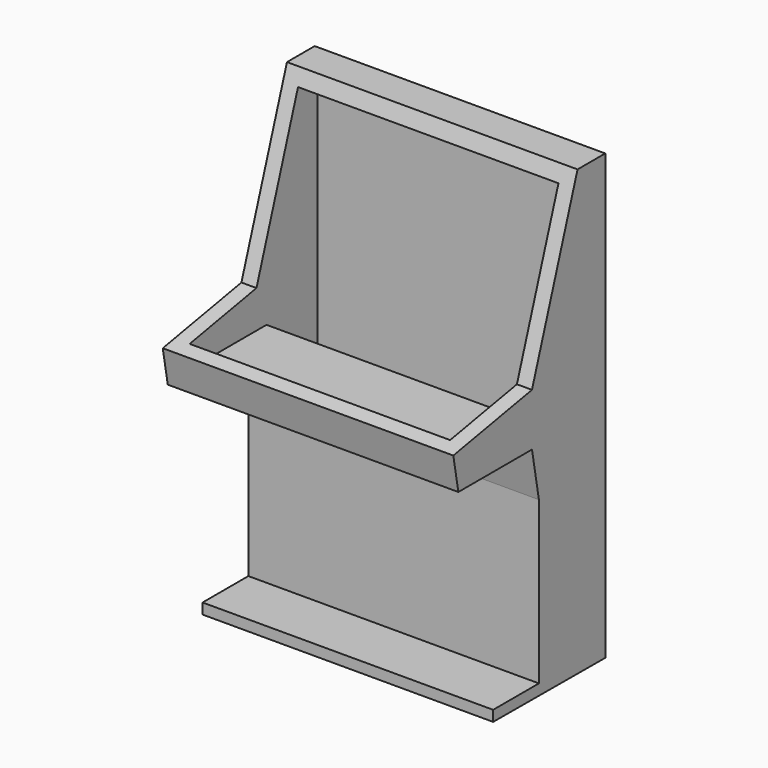
from build123d import *

# Parameters (mm, degrees)
F1_DEPTH = 49.022
F2_T     = -2.54
F4_W     = 49.022
F4_H     = 1.7985738814
F5_DEPTH = 9.652


with BuildPart() as f1:
    # F0 (on Right) → F1 (new body)
    with BuildSketch(Plane.YZ):
        Polygon((1.5098481488, -2.5384752646), (-15.0794390421, -5.5547094899), (-14.0161000537, -11.4030735567), (1.5098481488, -11.4030735567), (2.9737947043, -19.4547791034), (2.9737947043, -46.7351712286), (-5.6977379136, -46.7351712286), (-5.6886866642, -48.53374511), (16.9632527977, -48.6290739331), (16.9632527977, 26.2930374593), (11.1203547567, 26.2930374593), align=None)
    extrude(amount=-F1_DEPTH)

    # F2
    f2_openings = [f1.faces().sort_by_distance(p)[0] for p in [
        (-24.511, 6.315101, 11.877281),
        (-24.511, -6.784795, -4.046592),
    ]]
    offset(amount=F2_T, openings=f2_openings, kind=Kind.INTERSECTION)

    # F4 (on face) → F5 (join)
    with BuildSketch(Plane.XZ.offset(-2.9737947043)):
        with Locations((-24.511, -47.6344581693)):
            Rectangle(F4_W, F4_H)
    extrude(amount=F5_DEPTH)


with BuildPart() as f8_1:
    # F8: copy of F1
    add(f1.part)


solid = f1.part
